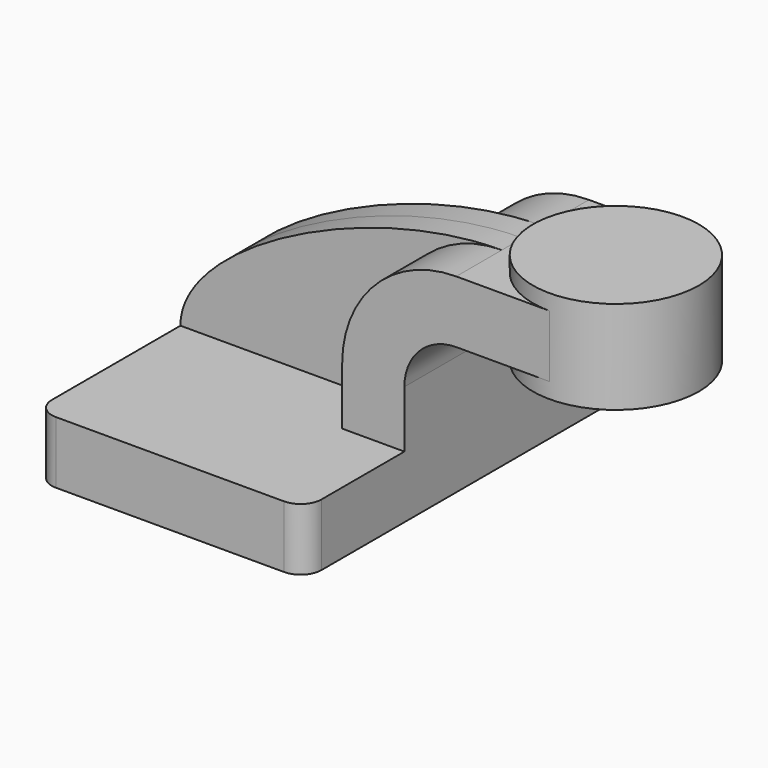
from build123d import *

# Parameters (mm, degrees)
F1_DEPTH = 63.5
F0_W     = 25.4
F0_H     = 19.05
F2_DEPTH = 25.4
F4_DEPTH = 7.9375
F5_R     = 6.35


with BuildPart() as f1:
    # F0 (on Front) → F1 (new body, symmetric)
    with BuildSketch(Plane.XZ):
        Polygon((41.275, -9.525), (41.275, 9.525), (22.225, 9.525), (-41.275, 9.525), (-41.275, -9.525), align=None)
    extrude(amount=F1_DEPTH, both=True)

    # F0 (on Front) → F2 (join, symmetric)
    with BuildSketch(Plane.XZ):
        with BuildLine():
            Line((22.225, 9.525), (41.275, 9.525))
            Line((41.275, 9.525), (41.275, 26.9875))
            ThreePointArc((41.275, 26.9875), (45.9246798487, 38.2128201513), (57.15, 42.8625))
            Line((57.15, 42.8625), (60.325, 42.8625))
            Line((60.325, 42.8625), (60.325, 61.9125))
            Line((60.325, 61.9125), (57.15, 61.9125))
            ThreePointArc((57.15, 61.9125), (32.4542956671, 51.6832043329), (22.225, 26.9875))
            Line((22.225, 26.9875), (22.225, 9.525))
        make_face()
        with Locations((73.025, 52.3875)):
            Rectangle(F0_W, F0_H)
    extrude(amount=F2_DEPTH, both=True)

    # F0 (on Front) → F3 (revolve)
    with BuildSketch(Plane.XZ):
        Polygon((85.725, 61.9125), (85.725, 42.8625), (85.725, 38.1), (111.125, 38.1), (111.125, 66.675), (85.725, 66.675), align=None)
    revolve(axis=Axis((85.725, 0, 52.3875), (0, 0, 1)))

    # F0 (on Front) → F4 (join, symmetric)
    with BuildSketch(Plane.XZ):
        with BuildLine():
            Line((-41.275, 9.525), (22.225, 9.525))
            Line((22.225, 9.525), (22.225, 26.9875))
            ThreePointArc((22.225, 26.9875), (32.4542956671, 51.6832043329), (57.15, 61.9125))
            add(Edge.make_bspline(
                [(-41.275, 9.525), (-41.275, 33.1159606576), (15.4643859714, 61.9125), (57.15, 61.9125)],
                knots=[0, 0, 0, 0, 111.4985685166, 111.4985685166, 111.4985685166, 111.4985685166], degree=3))
        make_face()
    extrude(amount=F4_DEPTH, both=True)

    # F5
    f5_edges = [f1.edges().sort_by_distance(p)[0] for p in [
        (-41.275, -63.5, 0),
        (41.275, -63.5, 0),
        (-41.275, 63.5, 0),
        (41.275, 63.5, 0),
    ]]
    fillet(f5_edges, radius=F5_R)


solid = f1.part
